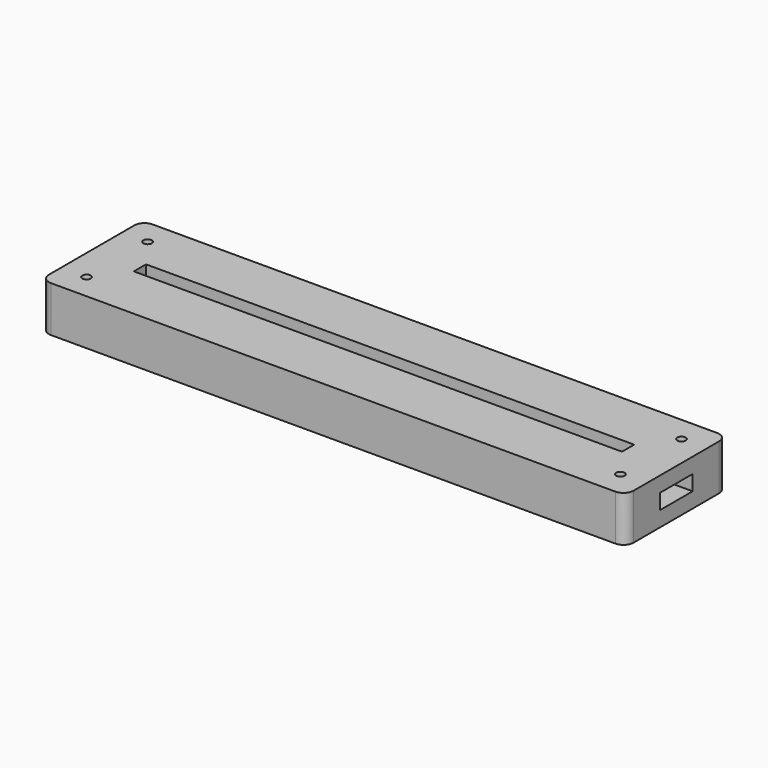
from build123d import *

# Parameters (mm, degrees)
SKETCH_W              = 115
SKETCH_H              = 25
PAD_DEPTH             = 3
PAD001_DEPTH          = 3
SKETCH002_W           = 115
SKETCH002_H           = 25
SKETCH002_W_2         = 96
SKETCH002_H_2         = 3
PAD002_DEPTH          = 3
SKETCH003_R           = 0.825
POCKET_DEPTH          = 245.060315
POLARPATTERN_COUNT    = 2
POLARPATTERN001_COUNT = 2
POLARPATTERN002_COUNT = 2
FILLET_R              = 2
SKETCH004_R           = 12.75
POCKET001_DEPTH       = 3
POCKET002_DEPTH       = 3


with BuildPart() as part:
    # Sketch → Pad (new body)
    with BuildSketch(Plane.XY):
        Rectangle(SKETCH_W, SKETCH_H)
    extrude(amount=PAD_DEPTH)

    # Sketch001 (on Face6 of Pad) → Pad001 (join)
    with BuildSketch(Plane.XY.offset(3)):
        Polygon((-57.5, 12.5), (57.5, 12.5), (57.5, 4), (50, 4), (50, 5), (-50, 5), (-50, 4), (-57.5, 4), align=None)
        Polygon((-57.5, -12.5), (57.5, -12.5), (57.5, -4), (50, -4), (50, -5), (-50, -5), (-50, -4), (-57.5, -4), align=None)
    extrude(amount=PAD001_DEPTH)

    # Sketch002 (on Face12 of Pad001) → Pad002 (join)
    with BuildSketch(Plane.XY.offset(6)):
        Rectangle(SKETCH002_W, SKETCH002_H)
        Rectangle(SKETCH002_W_2, SKETCH002_H_2, mode=Mode.SUBTRACT)
    extrude(amount=PAD002_DEPTH)

    # Sketch003 (on Face26 of Pad002) → Pocket (cut, through all)
    with BuildSketch(Plane.XY.offset(9)):
        with Locations((-52.5, 7.5)):
            Circle(SKETCH003_R)
    pocket = extrude(amount=-POCKET_DEPTH, mode=Mode.SUBTRACT)

    # PolarPattern: Pocket ×2 about axis
    polarpattern_axis = Axis((0, 0, 0), (0, 1, 0))
    for i in range(1, POLARPATTERN_COUNT):
        add(pocket.rotate(polarpattern_axis, i * 360 / POLARPATTERN_COUNT), mode=Mode.SUBTRACT)

    # PolarPattern001: Pocket ×2 about axis
    polarpattern001_axis = Axis((0, 0, 0), (1, 0, 0))
    for i in range(1, POLARPATTERN001_COUNT):
        add(pocket.rotate(polarpattern001_axis, i * 360 / POLARPATTERN001_COUNT), mode=Mode.SUBTRACT)

    # PolarPattern002: Pocket ×2 about axis
    polarpattern002_axis = Axis((0, 0, 9), (0, 0, 1))
    for i in range(1, POLARPATTERN002_COUNT):
        add(pocket.rotate(polarpattern002_axis, i * 360 / POLARPATTERN002_COUNT), mode=Mode.SUBTRACT)

    # Fillet
    fillet_edges = [part.edges().sort_by_distance(p)[0] for p in [
        (57.5, 12.5, 7.5),
        (57.5, 12.5, 4.5),
        (57.5, 12.5, 1.5),
        (57.5, -12.5, 7.5),
        (-57.5, 12.5, 7.5),
        (-57.5, -12.5, 7.5),
    ]]
    fillet(fillet_edges, radius=FILLET_R)

    # Sketch004 (on Face2 of Fillet) → Pocket001 (cut)
    with BuildSketch(Plane(origin=(0, 0, 0), x_dir=(1, 0, 0), z_dir=(0, 0, -1))):
        with Locations((0, -4.31247)):
            Circle(SKETCH004_R)
    extrude(amount=-POCKET001_DEPTH, mode=Mode.SUBTRACT)

    # Sketch005 (on Face2 of Pocket001) → Pocket002 (cut)
    with BuildSketch(Plane(origin=(0, 0, 0), x_dir=(1, 0, 0), z_dir=(0, 0, -1))):
        Polygon((0.086598, 10.584693), (-49.736099, 10.584693), (-49.736099, 6.30074), (-54.94091, 3.161258), (-54.94091, -2.621142), (-51.300568, -2.835279), (-51.086433, 1.161956), (-44.025761, 5.729707), (0.086598, 5.729707), align=None)
    extrude(amount=-POCKET002_DEPTH, mode=Mode.SUBTRACT)


solid = part.part
